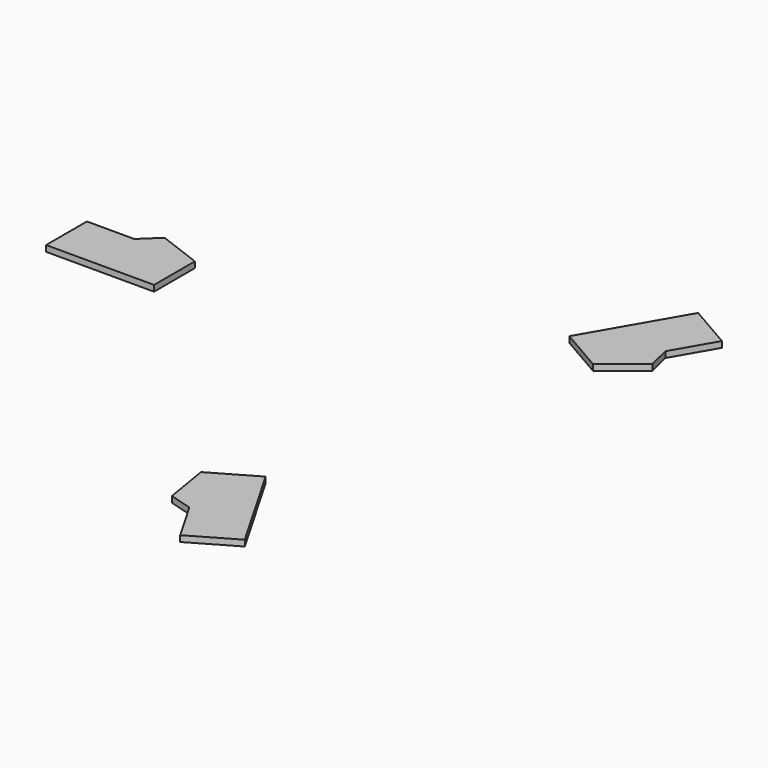
from build123d import *

# Parameters (mm, degrees)
F1_DEPTH = 2


with BuildPart() as f1:
    # F0 (on Top) → F1 (new body)
    with BuildSketch(Plane.XY):
        Polygon((-84.265687, 24.062581), (-100.057788, 24.062581), (-100.057788, 7.080483), (-64.122945, 7.080483), (-64.122945, 24.062581), (-78.556776, 29.511524), align=None)
        Polygon((43.897016, -90.192828), (25.929594, -59.072341), (11.222666, -67.56339), (13.720658, -82.787926), (21.294037, -85.007516), (29.190087, -98.683877), align=None)
        Polygon((56.160772, 83.112345), (38.193351, 51.991858), (52.900279, 43.500809), (64.836118, 53.276402), (62.97165, 60.944935), (70.867701, 74.621296), align=None)
    extrude(amount=F1_DEPTH)


solid = f1.part
